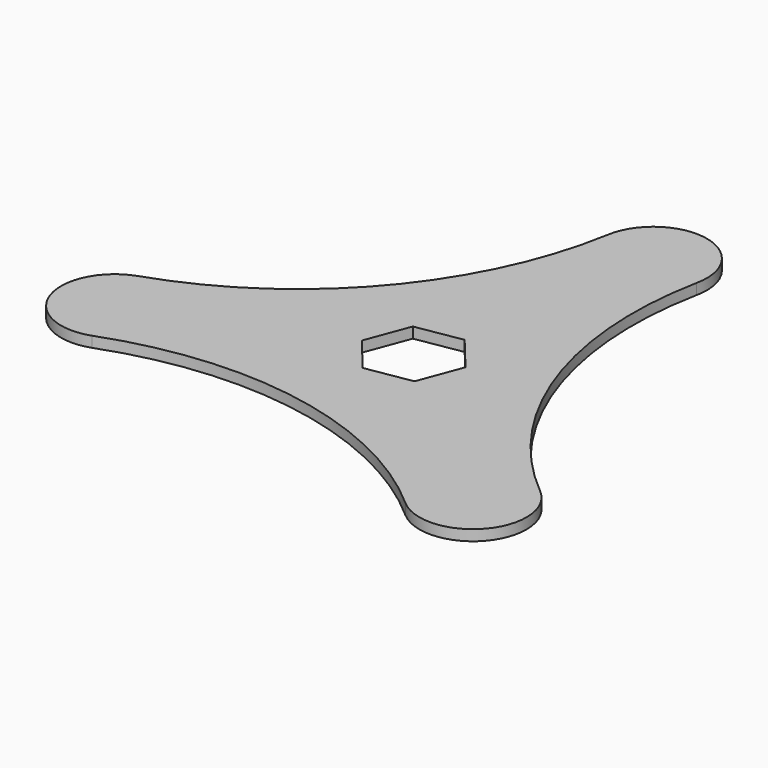
from build123d import *

# Parameters (mm, degrees)
F1_DEPTH = 1


with BuildPart() as f1:
    # F0 (on Top) → F1 (new body)
    with BuildSketch(Plane.XY):
        with BuildLine():
            ThreePointArc((7.244152, 7.851622), (25.336024, 9.417542), (41.653382, 1.448117))
            ThreePointArc((41.653382, 1.448117), (48.703058, 1.997731), (48.153443, 9.047407))
            ThreePointArc((48.153443, 9.047407), (37.776237, 23.862356), (36.465034, 41.902585))
            ThreePointArc((36.465034, 41.902585), (32.493609, 47.878818), (26.638178, 43.731348))
            ThreePointArc((26.638178, 43.731348), (18.924994, 27.370544), (3.913004, 17.280485))
            ThreePointArc((3.913004, 17.280485), (0.864147, 10.90048), (7.244152, 7.851622))
        make_face()
        Polygon((28.871957, 24.314205), (31.624682, 20.971675), (30.10633, 16.91648), (25.835252, 16.203815), (23.082526, 19.546344), (24.600879, 23.601539), align=None, mode=Mode.SUBTRACT)
    extrude(amount=F1_DEPTH)


solid = f1.part
